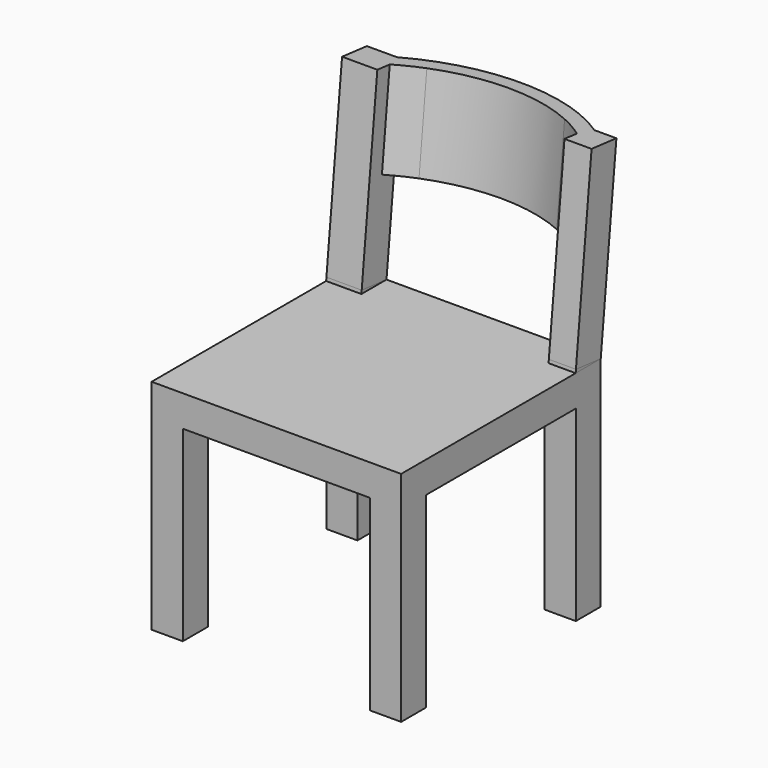
from build123d import *

# Parameters (mm, degrees)
F0_W         = 400
F0_H         = 400
F1_DEPTH     = 350
F2_W         = 150
F2_H         = 300
F3_DEPTH     = 523
F4_W         = 150
F4_H         = 300
F5_DEPTH     = 523
F6_W         = 150
F6_H         = 300
F7_DEPTH     = 603
F8_W         = 50
F8_H         = 400
F9_DEPTH     = 300
F10_DEPTH    = 260
F15_W        = 400
F15_H        = 300
F16_DEPTH    = 50
F17_W        = 300
F17_H        = 300
F18_DEPTH    = 138
F19_W        = 150
F19_H        = 300
F20_DEPTH    = 431.3595389803
F21_W        = 300
F21_H        = 150
F22_DEPTH    = 117.7727157663
F22_FACE_W   = 56.5604969859
F22_FACE_H   = 50
F22_FACE_W_2 = 43.4395030141
F24_DEPTH    = 25
F26_DEPTH    = 150
F28_DEPTH    = 150


with BuildPart() as f1:
    # F0 (on Top) → F1 (new body)
    with BuildSketch(Plane.XY):
        Rectangle(F0_W, F0_H)
    extrude(amount=F1_DEPTH)

    # F2 (on face) → F3 (cut)
    with BuildSketch(Plane.YZ.offset(200)):
        with Locations((-75, 150)):
            Rectangle(F2_W, F2_H)
    extrude(amount=-F3_DEPTH, mode=Mode.SUBTRACT)

    # F4 (on face) → F5 (cut)
    with BuildSketch(Plane.YZ.offset(200)):
        with Locations((75, 150)):
            Rectangle(F4_W, F4_H)
    extrude(amount=-F5_DEPTH, mode=Mode.SUBTRACT)

    # F6 (on face) → F7 (cut)
    with BuildSketch(Plane.XZ.offset(200)):
        with Locations((-75, 150)):
            Rectangle(F6_W, F6_H)
    extrude(amount=-F7_DEPTH, mode=Mode.SUBTRACT)

    # F8 (on face) → F9 (join)
    with BuildSketch(Plane.XY.offset(350)):
        with Locations((-175, 0)):
            Rectangle(F8_W, F8_H)
    extrude(amount=F9_DEPTH)

    # F10 (cut): a face of the model
    f10_faces = [f1.faces().sort_by_distance(p)[0] for p in [
        (-150, 0, 500),
    ]]
    extrude(f10_faces, amount=-F10_DEPTH, mode=Mode.SUBTRACT)

    # F15 (on line) → F16 (join)
    with BuildSketch(Plane(origin=(0, 161.4302141803, -16.9669992102), x_dir=(-1, 0, 0), z_dir=(0, 0.9945218954, -0.1045284633))):
        with Locations((0, 518.9883560324)):
            Rectangle(F15_W, F15_H)
    extrude(amount=-F16_DEPTH)

    # F17 (on face) → F18 (cut)
    with BuildSketch(Plane(origin=(0, 111.7041194119, -11.7405760468), x_dir=(1, 0, 0), z_dir=(0, -0.9945218954, 0.1045284633))):
        with Locations((6.5604969859, 518.9883560324)):
            Rectangle(F17_W, F17_H)
    extrude(amount=F18_DEPTH, mode=Mode.SUBTRACT)

    # F19 (on face) → F20 (cut, through all)
    with BuildSketch(Plane.XZ.offset(200)):
        with Locations((75, 150)):
            Rectangle(F19_W, F19_H)
    extrude(amount=-F20_DEPTH, mode=Mode.SUBTRACT)

    # F21 (on face) → F22 (cut, through all)
    with BuildSketch(Plane(origin=(0, 111.7041194119, -11.7405760468), x_dir=(1, 0, 0), z_dir=(0, -0.9945218954, 0.1045284633))):
        with Locations((6.5604969859, 443.9883560324)):
            Rectangle(F21_W, F21_H)
    extrude(amount=-F22_DEPTH, mode=Mode.SUBTRACT)


with BuildPart() as f23:
    # F22_face (on face) → F23 (new body, up to the next surface of F1)
    with BuildSketch(Plane(origin=(-171.719751507, 175.1369526158, 352.6132115817), x_dir=(1, 0, 0), z_dir=(0, -0.1045284633, -0.9945218954))):
        Rectangle(F22_FACE_W, F22_FACE_H)
    extrude(until=Until.NEXT, target=f1.part)


with BuildPart() as f23b:
    # F22_face (on face) → F23, piece 2 (new body, up to the next surface of F1)
    with BuildSketch(Plane(origin=(-171.719751507, 175.1369526158, 352.6132115817), x_dir=(1, 0, 0), z_dir=(0, -0.1045284633, -0.9945218954))):
        with Locations((350, 0)):
            Rectangle(F22_FACE_W_2, F22_FACE_H)
    extrude(until=Until.NEXT, target=f1.part)


with BuildPart() as f1_1:
    add(f1.part)

    # F17 (on face) → F24 (cut)
    with BuildSketch(Plane(origin=(0, 111.7041194119, -11.7405760468), x_dir=(1, 0, 0), z_dir=(0, -0.9945218954, 0.1045284633))):
        with Locations((6.5604969859, 518.9883560324)):
            Rectangle(F17_W, F17_H)
    extrude(amount=-F24_DEPTH, mode=Mode.SUBTRACT)

    # F25 (on face) → F26 (join)
    with BuildSketch(Plane(origin=(0, 69.9283248, 665.3235678207), x_dir=(1, 0, 0), z_dir=(0, 0.1045284633, 0.9945218954))):
        with BuildLine():
            ThreePointArc((-103.9022000101, 162.31941693), (6.5604969859, 188.6588998813), (117.0231939819, 162.31941693))
            Line((117.0231939819, 162.31941693), (164.8860291896, 162.31941693))
            ThreePointArc((164.8860291896, 162.31941693), (6.5604969859, 213.6588998813), (-151.7650352177, 162.31941693))
            Line((-151.7650352177, 162.31941693), (-103.9022000101, 162.31941693))
        make_face()
    extrude(amount=-F26_DEPTH)

    # F27 (on face) → F28 (cut)
    with BuildSketch(Plane(origin=(0, 69.9283248, 665.3235678207), x_dir=(1, 0, 0), z_dir=(0, 0.1045284633, 0.9945218954))):
        with BuildLine():
            Line((-143.4395030141, 137.31941693), (156.5604969859, 137.31941693))
            ThreePointArc((156.5604969859, 137.31941693), (137.3712712446, 150.7670267438), (116.9848327318, 162.31941693))
            Line((116.9848327318, 162.31941693), (-103.86383876, 162.31941693))
            ThreePointArc((-103.86383876, 162.31941693), (-124.2502772728, 150.7670267438), (-143.4395030141, 137.31941693))
        make_face()
    extrude(amount=-F28_DEPTH, mode=Mode.SUBTRACT)


solid = Compound([f23.part, f23b.part, f1_1.part])
